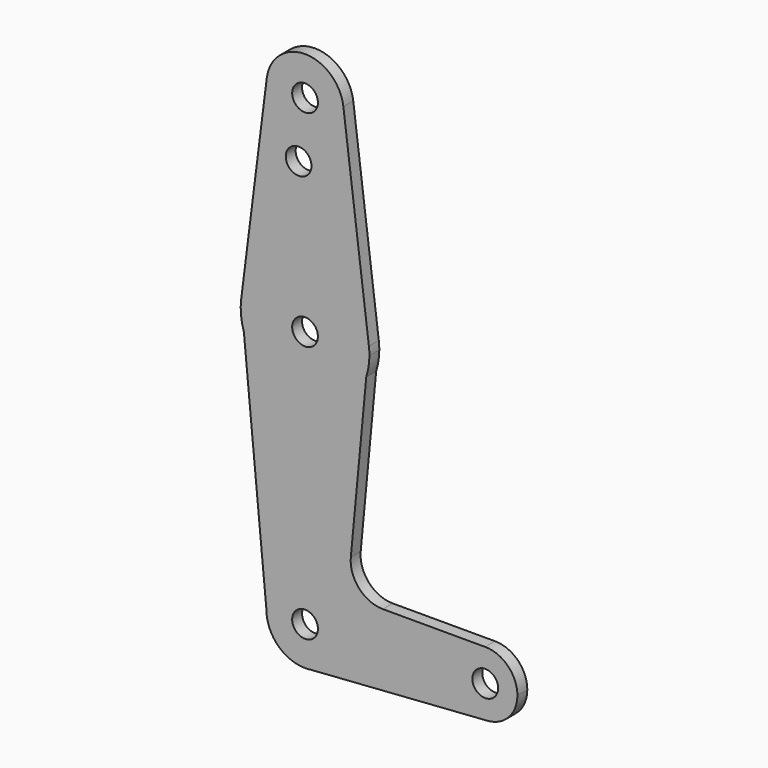
from build123d import *

# Parameters (mm, degrees)
F0_R     = 3.175
F1_DEPTH = 3.048


with BuildPart() as f1:
    # F0 (on Front) → F1 (new body)
    with BuildSketch(Plane.XZ):
        with BuildLine():
            ThreePointArc((-9.4502929642, 115.490625), (-0.596483242, 104.7936951058), (9.525, 114.3))
            ThreePointArc((9.525, 114.3), (9.5063048942, 114.896483242), (9.4502929642, 115.490625))
            ThreePointArc((9.4502929642, 115.490625), (0, 123.825), (-9.4502929642, 115.490625))
        make_face()
        with Locations((0, 114.3)):
            Circle(F0_R, mode=Mode.SUBTRACT)
        with BuildLine():
            ThreePointArc((9.4502929642, 115.490625), (9.5063048942, 114.896483242), (9.525, 114.3))
            ThreePointArc((9.525, 114.3), (-0.596483242, 104.7936951058), (-9.4502929642, 115.490625))
            Line((-9.4502929642, 115.490625), (-15.7504882737, 65.484375))
            ThreePointArc((-15.7504882737, 65.484375), (0, 79.375), (15.7504882737, 65.484375))
            Line((15.7504882737, 65.484375), (9.4502929642, 115.490625))
        make_face()
        with Locations((-1.5875, 100.0252)):
            Circle(F0_R, mode=Mode.SUBTRACT)
        with BuildLine():
            Line((15.1007031189, 58.6026139305), (15.7504882737, 65.484375))
            ThreePointArc((15.7504882737, 65.484375), (0, 79.375), (-15.7504882737, 65.484375))
            Line((-15.7504882737, 65.484375), (-15.0944103202, 58.583252896))
            ThreePointArc((-15.0944103202, 58.583252896), (0.01017901, 47.6250032634), (15.1007031189, 58.6026139305))
        make_face()
        with Locations((0, 63.5)):
            Circle(F0_R, mode=Mode.SUBTRACT)
        with BuildLine():
            ThreePointArc((15.875, 63.5), (15.8438414904, 64.4941387366), (15.7504882737, 65.484375))
            Line((15.7504882737, 65.484375), (15.1007031189, 58.6026139305))
            ThreePointArc((15.1007031189, 58.6026139305), (15.6802309775, 61.020890988), (15.875, 63.5))
        make_face()
        with BuildLine():
            Line((-15.0944103202, 58.583252896), (-15.7504882737, 65.484375))
            ThreePointArc((-15.7504882737, 65.484375), (-15.8037436669, 61.9975649401), (-15.0944103202, 58.583252896))
        make_face()
        with BuildLine():
            Line((11.2879625484, 18.2225445564), (15.1007031189, 58.6026139305))
            ThreePointArc((15.1007031189, 58.6026139305), (0.01017901, 47.6250032634), (-15.0944103202, 58.583252896))
            Line((-15.0944103202, 58.583252896), (-9.525, 0))
            ThreePointArc((-9.525, 0), (0, 9.525), (9.525, 0))
            ThreePointArc((9.525, 0), (7.1951916264, -6.2413814544), (1.3455055203, -9.4294877854))
            Line((1.3455055203, -9.4294877854), (45.0077203765, -6.3300766178))
            ThreePointArc((45.0077203765, -6.3300766178), (36.513164752, 1.3063044752), (44.4456823427, 9.525))
            Line((44.4456823427, 9.525), (19.2029581993, 9.525))
            ThreePointArc((19.2029581993, 9.525), (13.3230254304, 12.1243056193), (11.2879625484, 18.2225445564))
        make_face()
        with BuildLine():
            ThreePointArc((9.525, 0), (0, 9.525), (-9.525, 0))
            ThreePointArc((-9.525, 0), (-6.7351920908, -6.7351920908), (0, -9.525))
            Line((0, -9.525), (1.3455055203, -9.4294877854))
            ThreePointArc((1.3455055203, -9.4294877854), (7.1951916264, -6.2413814544), (9.525, 0))
        make_face()
        Circle(F0_R, mode=Mode.SUBTRACT)
        with BuildLine():
            Line((1.3455055203, -9.4294877854), (0, -9.525))
            ThreePointArc((0, -9.525), (0.6744456406, -9.5010919413), (1.3455055203, -9.4294877854))
        make_face()
        with BuildLine():
            ThreePointArc((52.3831823427, 1.5875), (50.0583424183, 7.2001600757), (44.4456823427, 9.525))
            ThreePointArc((44.4456823427, 9.525), (36.513164752, 1.3063044752), (45.0077203765, -6.3300766178))
            ThreePointArc((45.0077203765, -6.3300766178), (50.2536545853, -3.8228017179), (52.3831823427, 1.5875))
        make_face()
        with Locations((44.4456823427, 1.5875)):
            Circle(F0_R, mode=Mode.SUBTRACT)
    extrude(amount=F1_DEPTH)


solid = f1.part
